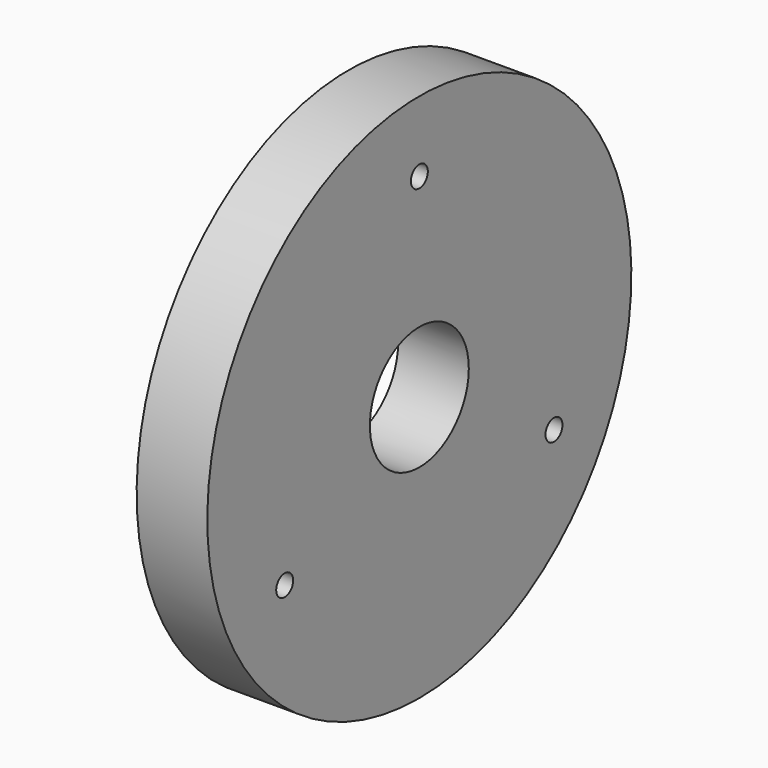
from build123d import *

# Parameters (mm, degrees)
F0_W     = 20
F0_H     = 75
F2_R     = 17.5
F2_R_2   = 3
F3_DEPTH = 20


with BuildPart() as f1:
    # F0 (on Front) → F1 (revolve)
    with BuildSketch(Plane.XZ):
        with Locations((10, -37.5)):
            Rectangle(F0_W, F0_H)
    revolve(axis=Axis((10, 0, 0), (1, 0, 0)))

    # F2 (on Right) → F3 (cut, through all)
    with BuildSketch(Plane.YZ):
        Circle(F2_R)
        with Locations((0, 55)):
            Circle(F2_R_2)
        with Locations((-47.631397, -27.5)):
            Circle(F2_R_2)
        with Locations((47.631397, -27.5)):
            Circle(F2_R_2)
    extrude(amount=F3_DEPTH, mode=Mode.SUBTRACT)


solid = f1.part
